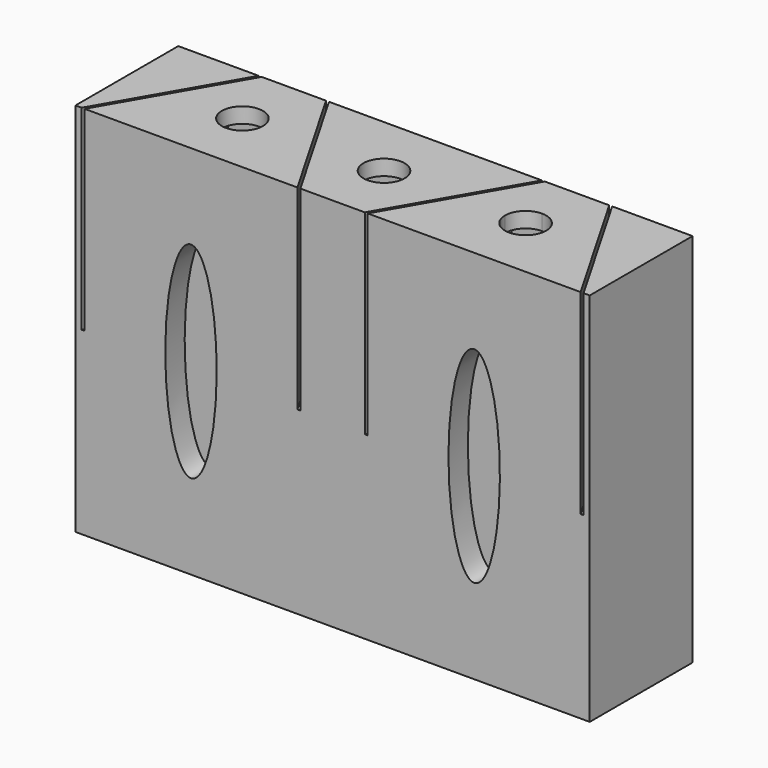
from build123d import *

# Parameters (mm, degrees)
F1_DEPTH = 3
F2_DEPTH = 35
F3_START = -35
F3_DEPTH = 35
F5_DEPTH = 4.7191688256
F7_DEPTH = 3


with BuildPart() as f1:
    # F0 (on Top) → F1 (new body)
    with BuildSketch(Plane.XY):
        Polygon((8.9845299462, -7.7808311744), (-8.9845299462, -7.7808311744), (-6.2599165544, -12.5), (6.2599165544, -12.5), align=None)
        Polygon((-20.6936732841, 12.5), (-17.9690598923, 7.7808311744), (17.9690598923, 7.7808311744), (20.6936732841, 12.5), align=None)
        Polygon((-17.9690598923, 7.7808311744), (-8.9845299462, -7.7808311744), (8.9845299462, -7.7808311744), (17.9690598923, 7.7808311744), align=None)
    extrude(amount=F1_DEPTH)

    # F0 (on Top) → F2, piece 2 (join)
    with BuildSketch(Plane.XY):
        Polygon((-20.6936732841, 12.5), (-17.9690598923, 7.7808311744), (17.9690598923, 7.7808311744), (20.6936732841, 12.5), align=None)
        Polygon((8.9845299462, -7.7808311744), (-8.9845299462, -7.7808311744), (-6.2599165544, -12.5), (6.2599165544, -12.5), align=None)
    extrude(amount=-F2_DEPTH)



with BuildPart() as f1b:
    # F0 (on Top) → F1, piece 2 (new body)
    with BuildSketch(Plane.XY):
        Polygon((-45.5, 7.7808311744), (-45.5, -6.7808311744), (-37.092820323, 7.7808311744), align=None)
        Polygon((-48.801963661, -12.5), (-45.5, -6.7808311744), (-45.5, 7.7808311744), (-37.092820323, 7.7808311744), (-34.3682069312, 12.5), (-50, 12.5), (-50, -12.5), align=None)
    extrude(amount=F1_DEPTH)

    # F0 (on Top) → F2 (join)
    with BuildSketch(Plane.XY):
        Polygon((-48.801963661, -12.5), (-45.5, -6.7808311744), (-45.5, 7.7808311744), (-37.092820323, 7.7808311744), (-34.3682069312, 12.5), (-50, 12.5), (-50, -12.5), align=None)
    extrude(amount=-F2_DEPTH)


with BuildPart() as f1c:
    # F0 (on Top) → F1, piece 3 (new body)
    with BuildSketch(Plane.XY):
        Polygon((37.092820323, 7.7808311744), (45.5, -6.7808311744), (45.5, 7.7808311744), align=None)
        Polygon((45.5, 7.7808311744), (45.5, -6.7808311744), (48.801963661, -12.5), (50, -12.5), (50, 12.5), (34.3682069312, 12.5), (37.092820323, 7.7808311744), align=None)
    extrude(amount=F1_DEPTH)

    # F0 (on Top) → F2, piece 4 (join)
    with BuildSketch(Plane.XY):
        Polygon((45.5, 7.7808311744), (45.5, -6.7808311744), (48.801963661, -12.5), (50, -12.5), (50, 12.5), (34.3682069312, 12.5), (37.092820323, 7.7808311744), align=None)
    extrude(amount=-F2_DEPTH)


with BuildPart() as f1d:
    # F0 (on Top) → F1, piece 4 (new body)
    with BuildSketch(Plane.XY):
        Polygon((21.2710235533, 12.5), (18.5464101615, 7.7808311744), (36.5154700538, 7.7808311744), (33.790856662, 12.5), align=None)
        Polygon((45.5, -7.7808311744), (9.5618802154, -7.7808311744), (6.8372668236, -12.5), (48.2246133918, -12.5), align=None)
        Polygon((18.5464101615, 7.7808311744), (9.5618802154, -7.7808311744), (45.5, -7.7808311744), (36.5154700538, 7.7808311744), align=None)
    extrude(amount=F1_DEPTH)

    # F0 (on Top) → F2, piece 3 (join)
    with BuildSketch(Plane.XY):
        Polygon((45.5, -7.7808311744), (9.5618802154, -7.7808311744), (6.8372668236, -12.5), (48.2246133918, -12.5), align=None)
        Polygon((21.2710235533, 12.5), (18.5464101615, 7.7808311744), (36.5154700538, 7.7808311744), (33.790856662, 12.5), align=None)
    extrude(amount=-F2_DEPTH)


with BuildPart() as f1e:
    # F0 (on Top) → F1, piece 5 (new body)
    with BuildSketch(Plane.XY):
        Polygon((-36.5154700538, 7.7808311744), (-45.5, -7.7808311744), (-9.5618802154, -7.7808311744), (-18.5464101615, 7.7808311744), align=None)
        Polygon((-33.790856662, 12.5), (-36.5154700538, 7.7808311744), (-18.5464101615, 7.7808311744), (-21.2710235533, 12.5), align=None)
        Polygon((-9.5618802154, -7.7808311744), (-45.5, -7.7808311744), (-48.2246133918, -12.5), (-6.8372668236, -12.5), align=None)
    extrude(amount=F1_DEPTH)

    # F0 (on Top) → F2, piece 5 (join)
    with BuildSketch(Plane.XY):
        Polygon((-9.5618802154, -7.7808311744), (-45.5, -7.7808311744), (-48.2246133918, -12.5), (-6.8372668236, -12.5), align=None)
        Polygon((-33.790856662, 12.5), (-36.5154700538, 7.7808311744), (-18.5464101615, 7.7808311744), (-21.2710235533, 12.5), align=None)
    extrude(amount=-F2_DEPTH)


with BuildPart() as f1_1:
    add(f1.part)

    add(f1b.part)  # F3 merges F1b

    add(f1c.part)  # F3 merges F1c

    add(f1d.part)  # F3 merges F1d

    add(f1e.part)  # F3 merges F1e
    # F0 (on Top) → F3 (join)
    with BuildSketch(Plane.XY.offset(F3_START)):
        Polygon((-8.9845299462, -7.7808311744), (-9.5618802154, -7.7808311744), (-6.8372668236, -12.5), (-6.2599165544, -12.5), align=None)
        Polygon((-33.790856662, 12.5), (-36.5154700538, 7.7808311744), (-18.5464101615, 7.7808311744), (-21.2710235533, 12.5), align=None)
        Polygon((-48.2246133918, -12.5), (-45.5, -7.7808311744), (-45.5, -6.7808311744), (-48.801963661, -12.5), align=None)
        Polygon((45.5, -6.7808311744), (45.5, -7.7808311744), (48.2246133918, -12.5), (48.801963661, -12.5), align=None)
        Polygon((8.9845299462, -7.7808311744), (-8.9845299462, -7.7808311744), (-6.2599165544, -12.5), (6.2599165544, -12.5), align=None)
        Polygon((-9.5618802154, -7.7808311744), (-45.5, -7.7808311744), (-48.2246133918, -12.5), (-6.8372668236, -12.5), align=None)
        Polygon((9.5618802154, -7.7808311744), (8.9845299462, -7.7808311744), (6.2599165544, -12.5), (6.8372668236, -12.5), align=None)
        Polygon((45.5, -7.7808311744), (9.5618802154, -7.7808311744), (6.8372668236, -12.5), (48.2246133918, -12.5), align=None)
        Polygon((-48.801963661, -12.5), (-45.5, -6.7808311744), (-45.5, 7.7808311744), (-37.092820323, 7.7808311744), (-34.3682069312, 12.5), (-50, 12.5), (-50, -12.5), align=None)
        Polygon((-37.092820323, 7.7808311744), (-36.5154700538, 7.7808311744), (-33.790856662, 12.5), (-34.3682069312, 12.5), align=None)
        Polygon((-21.2710235533, 12.5), (-18.5464101615, 7.7808311744), (-17.9690598923, 7.7808311744), (-20.6936732841, 12.5), align=None)
        Polygon((-20.6936732841, 12.5), (-17.9690598923, 7.7808311744), (17.9690598923, 7.7808311744), (20.6936732841, 12.5), align=None)
        Polygon((20.6936732841, 12.5), (17.9690598923, 7.7808311744), (18.5464101615, 7.7808311744), (21.2710235533, 12.5), align=None)
        Polygon((33.790856662, 12.5), (36.5154700538, 7.7808311744), (37.092820323, 7.7808311744), (34.3682069312, 12.5), align=None)
        Polygon((45.5, 7.7808311744), (45.5, -6.7808311744), (48.801963661, -12.5), (50, -12.5), (50, 12.5), (34.3682069312, 12.5), (37.092820323, 7.7808311744), align=None)
        Polygon((21.2710235533, 12.5), (18.5464101615, 7.7808311744), (36.5154700538, 7.7808311744), (33.790856662, 12.5), align=None)
    extrude(amount=-F3_DEPTH)

    # F4 (on face) → F5 (cut, through all)
    with BuildSketch(Plane.XZ.offset(12.5)):
        with BuildLine():
            add(Edge.make_bspline(
                [(-27.5309401077, -13.5), (-36.1911941455, -13.5), (-31.8610671266, -43.5), (-27.5309401077, -73.5), (-23.2008130888, -43.5), (-18.8706860698, -13.5), (-27.5309401077, -13.5)],
                knots=[0, 0, 0, 2.0943951024, 2.0943951024, 4.1887902048, 4.1887902048, 6.2831853072, 6.2831853072, 6.2831853072], degree=2, weights=[1, 0.5, 1, 0.5, 1, 0.5, 1]))
        make_face()
        with BuildLine():
            add(Edge.make_bspline(
                [(27.5309401077, -13.5), (18.8706860698, -13.5), (23.2008130888, -43.5), (27.5309401077, -73.5), (31.8610671266, -43.5), (36.1911941455, -13.5), (27.5309401077, -13.5)],
                knots=[0, 0, 0, 2.0943951024, 2.0943951024, 4.1887902048, 4.1887902048, 6.2831853072, 6.2831853072, 6.2831853072], degree=2, weights=[1, 0.5, 1, 0.5, 1, 0.5, 1]))
        make_face()
    extrude(amount=-F5_DEPTH, mode=Mode.SUBTRACT)

    # F6 (on face) → F7 (cut, through all)
    with BuildSketch(Plane.XY.offset(3)):
        with BuildLine():
            ThreePointArc((-23.5309401077, 0), (-27.5309401077, 4), (-31.5309401077, 0))
            Line((-31.5309401077, 0), (-23.5309401077, 0))
        make_face()
        with BuildLine():
            Line((-23.5309401077, 0), (-31.5309401077, 0))
            ThreePointArc((-31.5309401077, 0), (-27.5309401077, -4), (-23.5309401077, 0))
        make_face()
        with BuildLine():
            Line((4, 0), (-4, 0))
            ThreePointArc((-4, 0), (0, -4), (4, 0))
        make_face()
        with BuildLine():
            ThreePointArc((4, 0), (0, 4), (-4, 0))
            Line((-4, 0), (4, 0))
        make_face()
        with BuildLine():
            Line((31.5309401077, 0), (27.5309401077, 0))
            Line((27.5309401077, 0), (27.5309401077, -4))
            ThreePointArc((27.5309401077, -4), (30.3593672324, -2.8284271247), (31.5309401077, 0))
        make_face()
        with BuildLine():
            Line((27.5309401077, 0), (23.5309401077, 0))
            ThreePointArc((23.5309401077, 0), (24.7025129829, -2.8284271247), (27.5309401077, -4))
            Line((27.5309401077, -4), (27.5309401077, 0))
        make_face()
        with BuildLine():
            ThreePointArc((27.5309401077, 4), (24.7025129829, 2.8284271247), (23.5309401077, 0))
            Line((23.5309401077, 0), (27.5309401077, 0))
            Line((27.5309401077, 0), (27.5309401077, 4))
        make_face()
        with BuildLine():
            Line((27.5309401077, 4), (27.5309401077, 0))
            Line((27.5309401077, 0), (31.5309401077, 0))
            ThreePointArc((31.5309401077, 0), (30.3593672324, 2.8284271247), (27.5309401077, 4))
        make_face()
    extrude(amount=-F7_DEPTH, mode=Mode.SUBTRACT)


solid = f1_1.part
